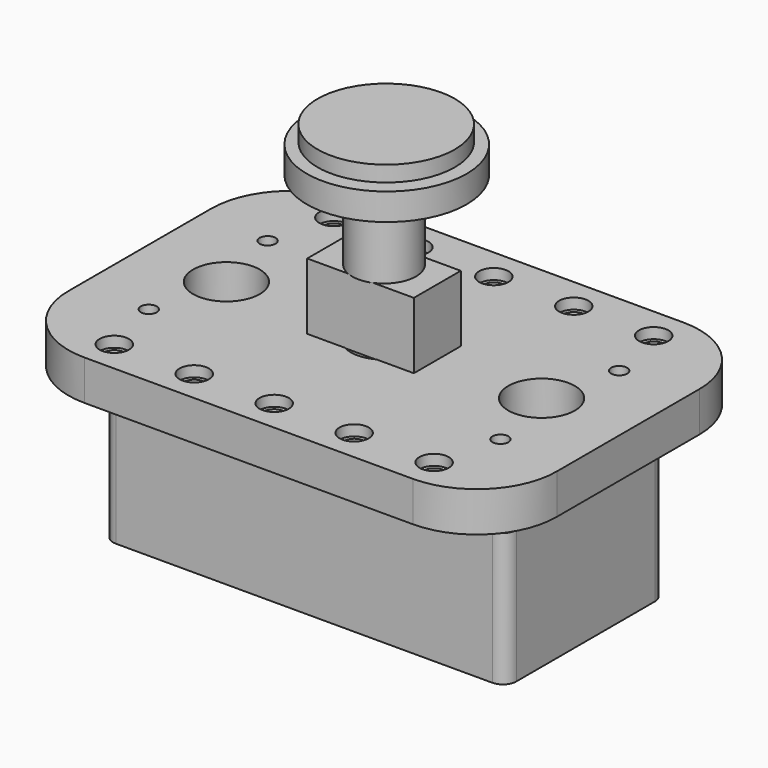
from build123d import *

# Parameters (mm, degrees)
F0_R      = 25.75
F1_DEPTH  = 5.9
F2_R      = 30
F3_DEPTH  = 10.1
F4_R      = 12
F5_DEPTH  = 30
F6_W      = 40
F6_H      = 22
F7_DEPTH  = 25
F9_W      = 151.25
F9_H      = 75
F9_W_2    = 143.25
F9_H_2    = 67
F10_DEPTH = 48.5
F11_W     = 151.25
F11_H     = 75
F12_DEPTH = 1.5
F13_R     = 3
F13_R_2   = 2
F14_DEPTH = 44.5
F15_R     = 5
F17_W     = 183.25
F17_H     = 127
F17_R     = 4
F17_R_2   = 3
F17_R_3   = 12.5
F18_DEPTH = 15
F19_R     = 30
F20_R     = 5.5
F21_DEPTH = 4


with BuildPart() as f1:
    # F0 (on Top) → F1 (new body)
    with BuildSketch(Plane.XY):
        with Locations((0, 1.034446)):
            Circle(F0_R)
    extrude(amount=F1_DEPTH)

    # F2 (on face) → F3 (join)
    with BuildSketch(Plane(origin=(0, 0, 0), x_dir=(1, 0, 0), z_dir=(0, 0, -1))):
        with Locations((1.031214, 0)):
            Circle(F2_R)
    extrude(amount=F3_DEPTH)

    # F4 (on face) → F5 (join)
    with BuildSketch(Plane(origin=(0, 0, -10.1), x_dir=(1, 0, 0), z_dir=(0, 0, -1))):
        Circle(F4_R)
    extrude(amount=F5_DEPTH)

    # F6 (on face) → F7 (join)
    with BuildSketch(Plane(origin=(0, 0, -40.1), x_dir=(1, 0, 0), z_dir=(0, 0, -1))):
        Rectangle(F6_W, F6_H)
    extrude(amount=F7_DEPTH)


with BuildPart() as f10:
    # F9 (on offset) → F10 (new body)
    with BuildSketch(Plane.XY.offset(-90)):
        Rectangle(F9_W, F9_H)
        Rectangle(F9_W_2, F9_H_2, mode=Mode.SUBTRACT)
    extrude(amount=-F10_DEPTH)

    # F11 (on face) → F12 (join)
    with BuildSketch(Plane(origin=(0, 0, -138.5), x_dir=(1, 0, 0), z_dir=(0, 0, -1))):
        Rectangle(F11_W, F11_H)
    extrude(amount=F12_DEPTH)

    # F13 (on face) → F14 (join)
    with BuildSketch(Plane.XY.offset(-138.5)):
        with Locations((65.975, 27.85)):
            Circle(F13_R)
        with Locations((65.975, 27.85)):
            Circle(F13_R_2, mode=Mode.SUBTRACT)
        with Locations((-65.975, 27.85)):
            Circle(F13_R)
        with Locations((-65.975, 27.85)):
            Circle(F13_R_2, mode=Mode.SUBTRACT)
        with Locations((65.975, -27.85)):
            Circle(F13_R)
        with Locations((65.975, -27.85)):
            Circle(F13_R_2, mode=Mode.SUBTRACT)
        with Locations((-65.975, -27.85)):
            Circle(F13_R)
        with Locations((-65.975, -27.85)):
            Circle(F13_R_2, mode=Mode.SUBTRACT)
    extrude(amount=F14_DEPTH)

    # F15
    f15_edges = [f10.edges().sort_by_distance(p)[0] for p in [
        (-75.625, 37.5, -115),
        (-75.625, -37.5, -115),
        (75.625, -37.5, -115),
        (75.625, 37.5, -115),
    ]]
    fillet(f15_edges, radius=F15_R)


with BuildPart() as f18:
    # F17 (on offset) → F18 (new body)
    with BuildSketch(Plane.XY.offset(-80)):
        Rectangle(F17_W, F17_H)
        with Locations((-60, -51.5)):
            Circle(F17_R, mode=Mode.SUBTRACT)
        with Locations((-30, -51.5)):
            Circle(F17_R, mode=Mode.SUBTRACT)
        with Locations((-65.975, -27.85)):
            Circle(F17_R_2, mode=Mode.SUBTRACT)
        with Locations((0, -51.5)):
            Circle(F17_R, mode=Mode.SUBTRACT)
        with Locations((30, -51.5)):
            Circle(F17_R, mode=Mode.SUBTRACT)
        with Locations((60, -51.5)):
            Circle(F17_R, mode=Mode.SUBTRACT)
        with Locations((65.975, -27.85)):
            Circle(F17_R_2, mode=Mode.SUBTRACT)
        with Locations((-59.125, 0)):
            Circle(F17_R_3, mode=Mode.SUBTRACT)
        with Locations((-65.975, 27.85)):
            Circle(F17_R_2, mode=Mode.SUBTRACT)
        with Locations((-60, 51.5)):
            Circle(F17_R, mode=Mode.SUBTRACT)
        with Locations((-30, 51.5)):
            Circle(F17_R, mode=Mode.SUBTRACT)
        Circle(F17_R_3, mode=Mode.SUBTRACT)
        with Locations((59.125, 0)):
            Circle(F17_R_3, mode=Mode.SUBTRACT)
        with Locations((65.975, 27.85)):
            Circle(F17_R_2, mode=Mode.SUBTRACT)
        with Locations((0, 51.5)):
            Circle(F17_R, mode=Mode.SUBTRACT)
        with Locations((30, 51.5)):
            Circle(F17_R, mode=Mode.SUBTRACT)
        with Locations((60, 51.5)):
            Circle(F17_R, mode=Mode.SUBTRACT)
    extrude(amount=F18_DEPTH)

    # F19
    f19_edges = [f18.edges().sort_by_distance(p)[0] for p in [
        (91.625, 63.5, -72.5),
        (91.625, -63.5, -72.5),
        (-91.625, -63.5, -72.5),
        (-91.625, 63.5, -72.5),
    ]]
    fillet(f19_edges, radius=F19_R)

    # F20 (on face) → F21 (cut)
    with BuildSketch(Plane.XY.offset(-65)):
        with Locations((-60, 51.5)):
            Circle(F20_R)
        with Locations((-30, 51.5)):
            Circle(F20_R)
        with Locations((0, 51.5)):
            Circle(F20_R)
        with Locations((30, 51.5)):
            Circle(F20_R)
        with Locations((60, 51.5)):
            Circle(F20_R)
        with Locations((60, -51.5)):
            Circle(F20_R)
        with Locations((30, -51.5)):
            Circle(F20_R)
        with Locations((0, -51.5)):
            Circle(F20_R)
        with Locations((-30, -51.5)):
            Circle(F20_R)
        with Locations((-60, -51.5)):
            Circle(F20_R)
    extrude(amount=-F21_DEPTH, mode=Mode.SUBTRACT)


solid = Compound([f1.part, f10.part, f18.part])
